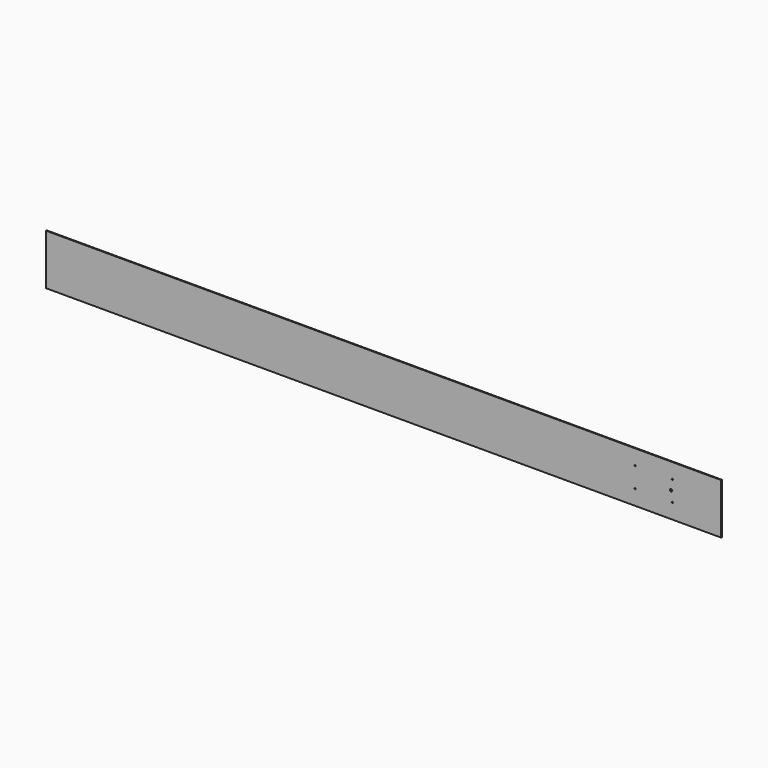
from build123d import *

# Parameters (mm, degrees)
F0_W     = 2000
F0_H     = 150
F1_DEPTH = 2.5
F2_R     = 1.75
F2_R_2   = 3.5
F3_DEPTH = 2.501


with BuildPart() as f1:
    # F0 (on Front) → F1 (new body)
    with BuildSketch(Plane.XZ):
        with Locations((1000, 75)):
            Rectangle(F0_W, F0_H)
    extrude(amount=F1_DEPTH)

    # F2 (on face) → F3 (cut, through all)
    with BuildSketch(Plane(origin=(0, 0, 0), x_dir=(-1, 0, 0), z_dir=(0, 1, 0))):
        with Locations((-1855, 105)):
            Circle(F2_R)
        with Locations((-1745, 105)):
            Circle(F2_R)
        with Locations((-1745, 45)):
            Circle(F2_R)
        with Locations((-1855, 45)):
            Circle(F2_R)
        with Locations((-1851.5, 75)):
            Circle(F2_R_2)
    extrude(amount=-F3_DEPTH, mode=Mode.SUBTRACT)


solid = f1.part
